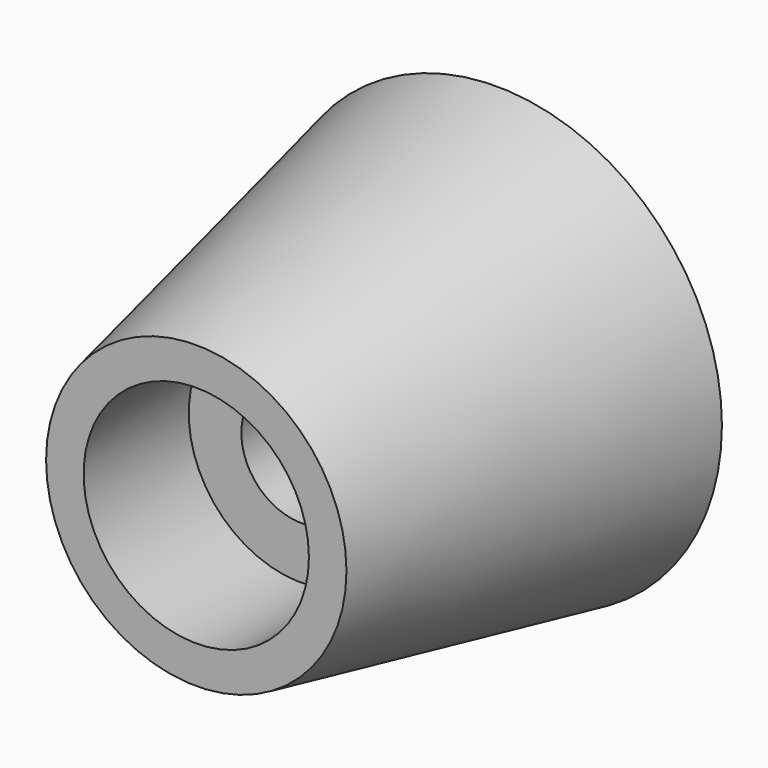
from build123d import *


with BuildPart() as part:
    # Sketch → Revolution (revolve)
    with BuildSketch(Plane.XY):
        Polygon((1.6, 10), (1.6, 3.5), (3, 3.5), (3, 0), (4, 0), (6, 10), align=None)
    revolve(axis=Axis((0, 0, 0), (0, 1, 0)))


solid = part.part
